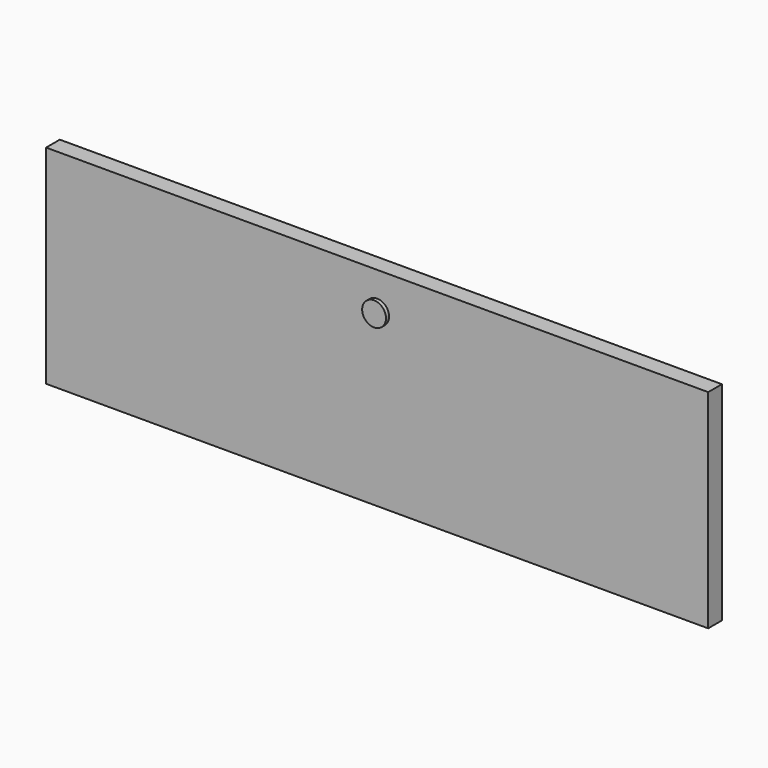
from build123d import *

# Parameters (mm, degrees)
F0_W     = 694
F0_H     = 218
F1_DEPTH = 18
F2_R     = 12.5
F3_DEPTH = 4


with BuildPart() as f1:
    # F0 (on Front) → F1 (new body)
    with BuildSketch(Plane.XZ):
        Rectangle(F0_W, F0_H)
    extrude(amount=F1_DEPTH)

    # F2 (on face) → F3 (join)
    with BuildSketch(Plane.XZ.offset(18)):
        with Locations((0, 70)):
            Circle(F2_R)
    extrude(amount=F3_DEPTH)


solid = f1.part
